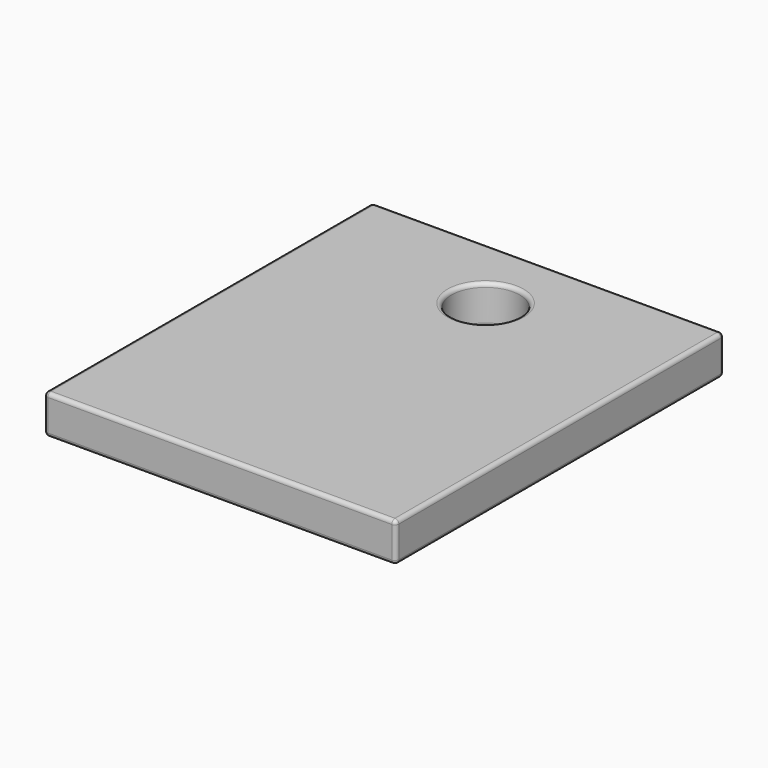
from build123d import *

# Parameters (mm, degrees)
F0_W     = 18
F0_H     = 21
F0_R     = 1.75
F1_DEPTH = 2
F2_R     = 0.2


with BuildPart() as f1:
    # F0 (on Top) → F1 (new body)
    with BuildSketch(Plane.XY):
        with Locations((9, 10.5)):
            Rectangle(F0_W, F0_H)
        with Locations((9, 17)):
            Circle(F0_R, mode=Mode.SUBTRACT)
    extrude(amount=F1_DEPTH)

    # F2
    f2_edges = [f1.edges().sort_by_distance(p)[0] for p in [
        (0, 10.5, 2),
        (9, 0, 2),
        (18, 10.5, 2),
        (9, 21, 2),
        (7.25, 17, 2),
        (0, 10.5, 0),
        (9, 0, 0),
        (18, 10.5, 0),
        (9, 21, 0),
        (7.25, 17, 0),
        (0, 21, 1),
        (0, 0, 1),
        (18, 0, 1),
        (18, 21, 1),
    ]]
    fillet(f2_edges, radius=F2_R)


solid = f1.part
